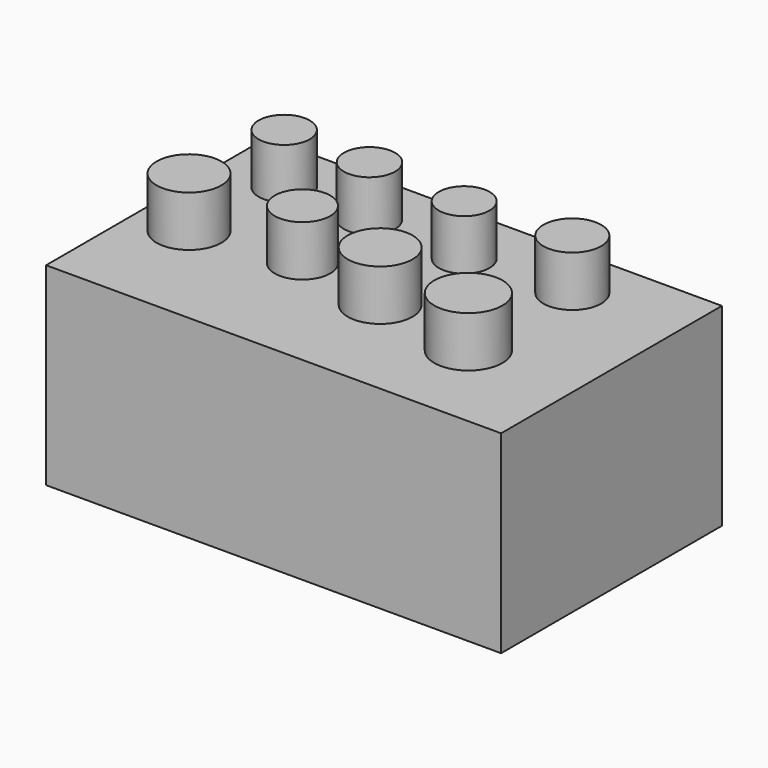
from build123d import *

# Parameters (mm, degrees)
F0_W      = 138.6799942702
F0_H      = 97.2796790302
F1_DEPTH  = 228.6
F2_T      = -2.54
F3_R      = 33.1351902141
F3_R_2    = 22.3789539676
F4_DEPTH  = 88.9
F5_R      = 31.365179226
F5_R_2    = 22.8340375073
F6_DEPTH  = 88.9
F7_R      = 32.921040163
F7_R_2    = 24.2040309483
F8_DEPTH  = 88.9
F9_R      = 12.840995734
F9_R_2    = 12.8521164222
F9_R_3    = 12.7516607916
F9_R_4    = 14.5420806557
F9_R_5    = 17.1317992696
F9_R_6    = 16.2815585051
F9_R_7    = 13.9618543487
F9_R_8    = 16.2927152835
F10_DEPTH = 25.4


with BuildPart() as f1:
    # F0 (on Right) → F1 (new body)
    with BuildSketch(Plane.YZ):
        with Locations((-54.6218389645, 3.1497571617)):
            Rectangle(F0_W, F0_H)
    extrude(amount=F1_DEPTH)

    # F2
    f2_openings = [f1.faces().sort_by_distance(p)[0] for p in [
        (114.3, -54.621839, -45.490082),
    ]]
    offset(amount=F2_T, openings=f2_openings)

    # F3 (on face) → F4 (join)
    with BuildSketch(Plane(origin=(0, 0, 49.2495966768), x_dir=(1, 0, 0), z_dir=(0, 0, -1))):
        with Locations((43.8807010651, 65.2723014355)):
            Circle(F3_R)
        with Locations((43.8807010651, 65.2723014355)):
            Circle(F3_R_2, mode=Mode.SUBTRACT)
    extrude(amount=F4_DEPTH)

    # F5 (on face) → F6 (join)
    with BuildSketch(Plane(origin=(0, 0, 49.2495966768), x_dir=(1, 0, 0), z_dir=(0, 0, -1))):
        with Locations((109.2752963305, 67.5403177738)):
            Circle(F5_R)
        with Locations((109.2752963305, 67.5403177738)):
            Circle(F5_R_2, mode=Mode.SUBTRACT)
    extrude(amount=F6_DEPTH)

    # F7 (on face) → F8 (join)
    with BuildSketch(Plane(origin=(0, 0, 49.2495966768), x_dir=(1, 0, 0), z_dir=(0, 0, -1))):
        with Locations((174.669906497, 65.6502991915)):
            Circle(F7_R)
        with Locations((174.669906497, 65.6502991915)):
            Circle(F7_R_2, mode=Mode.SUBTRACT)
    extrude(amount=F8_DEPTH)

    # F9 (on face) → F10 (join)
    with BuildSketch(Plane.XY.offset(51.7895966768)):
        with Locations((31.5596684813, -13.9110339805)):
            Circle(F9_R)
        with Locations((74.8604610562, -14.4456122071)):
            Circle(F9_R_2)
        with Locations((124.5761811733, -17.1185005456)):
            Circle(F9_R_3)
        with Locations((175.8956313133, -13.3764576167)):
            Circle(F9_R_4)
        with Locations((174.5792776346, -76.9741907716)):
            Circle(F9_R_5)
        with Locations((123.3455315232, -68.3407709002)):
            Circle(F9_R_6)
        with Locations((77.4572491646, -59.7661323845)):
            Circle(F9_R_7)
        with Locations((25.5353599787, -66.1121979356)):
            Circle(F9_R_8)
    extrude(amount=F10_DEPTH)


solid = f1.part
